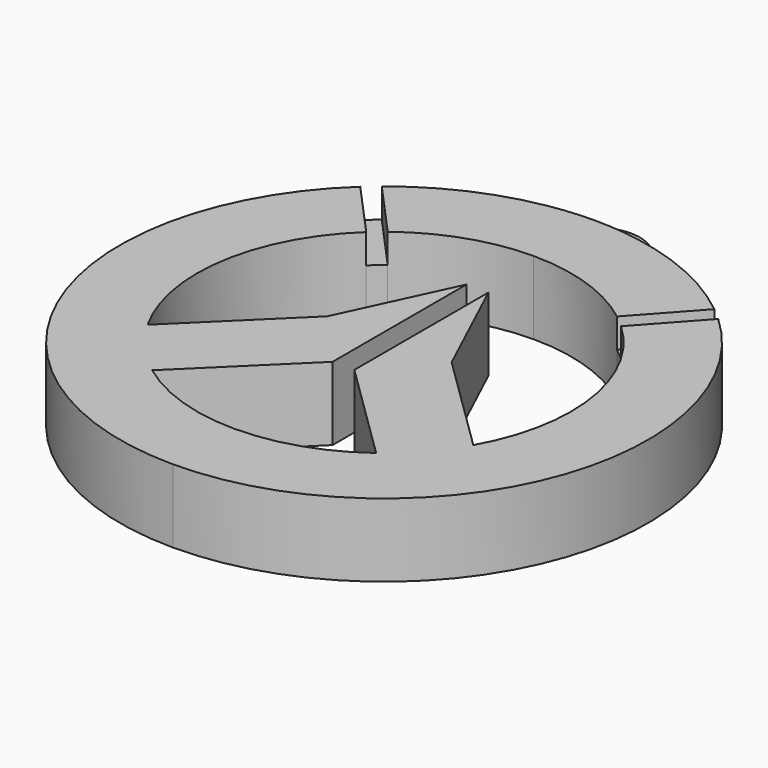
from build123d import *

# Parameters (mm, degrees)
F1_DEPTH = 6.35
F0_R     = 1.5875
F2_DEPTH = 3.81


with BuildPart() as f1:
    # F0 (on Top) → F1 (new body)
    with BuildSketch(Plane.XY):
        with BuildLine():
            ThreePointArc((0.645552, 22.180257), (-1.275182, 22.425696), (-3.209795, 22.507705))
            ThreePointArc((-3.209795, 22.507705), (-5.144409, 22.425696), (-7.065142, 22.180257))
            ThreePointArc((-7.065142, 22.180257), (-12.645539, 20.469481), (-17.610809, 17.401308))
            Line((-17.610809, 17.401308), (-13.137701, 12.456375))
            ThreePointArc((-13.137701, 12.456375), (-8.4563, 14.980661), (-3.209795, 15.853424))
            ThreePointArc((-3.209795, 15.853424), (2.03671, 14.980661), (6.71811, 12.456375))
            Line((6.71811, 12.456375), (11.191218, 17.401308))
            ThreePointArc((11.191218, 17.401308), (6.225949, 20.469481), (0.645552, 22.180257))
        make_face()
        with BuildLine():
            Line((-14.247476, 11.51341), (-18.711746, 16.448572))
            ThreePointArc((-18.711746, 16.448572), (-24.501195, -8.674307), (-3.209795, -23.212295))
            ThreePointArc((-3.209795, -23.212295), (18.081605, -8.674307), (12.292155, 16.448572))
            Line((12.292155, 16.448572), (7.827885, 11.51341))
            ThreePointArc((7.827885, 11.51341), (12.805017, 2.127855), (10.899951, -8.323519))
            Line((10.899951, -8.323519), (2.17881, 0.229518))
            Line((2.17881, 0.229518), (-2.26534, 9.769376))
            Line((-2.26534, 9.769376), (-2.26534, -4.748298))
            Line((-2.26534, -4.748298), (6.48982, -13.334699))
            ThreePointArc((6.48982, -13.334699), (1.900789, -15.731088), (-3.209795, -16.558014))
            ThreePointArc((-3.209795, -16.558014), (-8.32038, -15.731088), (-12.90941, -13.334699))
            Line((-12.90941, -13.334699), (-4.154251, -4.748298))
            Line((-4.154251, -4.748298), (-4.154251, 9.769376))
            Line((-4.154251, 9.769376), (-8.5984, 0.229518))
            Line((-8.5984, 0.229518), (-17.319541, -8.323519))
            ThreePointArc((-17.319541, -8.323519), (-19.224607, 2.127855), (-14.247476, 11.51341))
        make_face()
    extrude(amount=F1_DEPTH)

    # F0 (on Top) → F2 (join)
    with BuildSketch(Plane.XY):
        with BuildLine():
            ThreePointArc((-7.065142, 22.180257), (-5.144409, 22.425696), (-3.209795, 22.507705))
            ThreePointArc((-3.209795, 22.507705), (-1.275182, 22.425696), (0.645552, 22.180257))
            ThreePointArc((0.645552, 22.180257), (-3.209795, 26.376933), (-7.065142, 22.180257))
        make_face()
        with Locations((-3.209795, 24.443971)):
            Circle(F0_R, mode=Mode.SUBTRACT)
        with BuildLine():
            ThreePointArc((12.292155, 16.448572), (11.749274, 16.933707), (11.191218, 17.401308))
            Line((11.191218, 17.401308), (6.71811, 12.456375))
            ThreePointArc((6.71811, 12.456375), (7.283595, 11.997365), (7.827885, 11.51341))
            Line((7.827885, 11.51341), (12.292155, 16.448572))
        make_face()
        with BuildLine():
            Line((-13.137701, 12.456375), (-17.610809, 17.401308))
            ThreePointArc((-17.610809, 17.401308), (-18.168864, 16.933707), (-18.711746, 16.448572))
            Line((-18.711746, 16.448572), (-14.247476, 11.51341))
            ThreePointArc((-14.247476, 11.51341), (-13.703186, 11.997365), (-13.137701, 12.456375))
        make_face()
    extrude(amount=F2_DEPTH)


solid = f1.part
